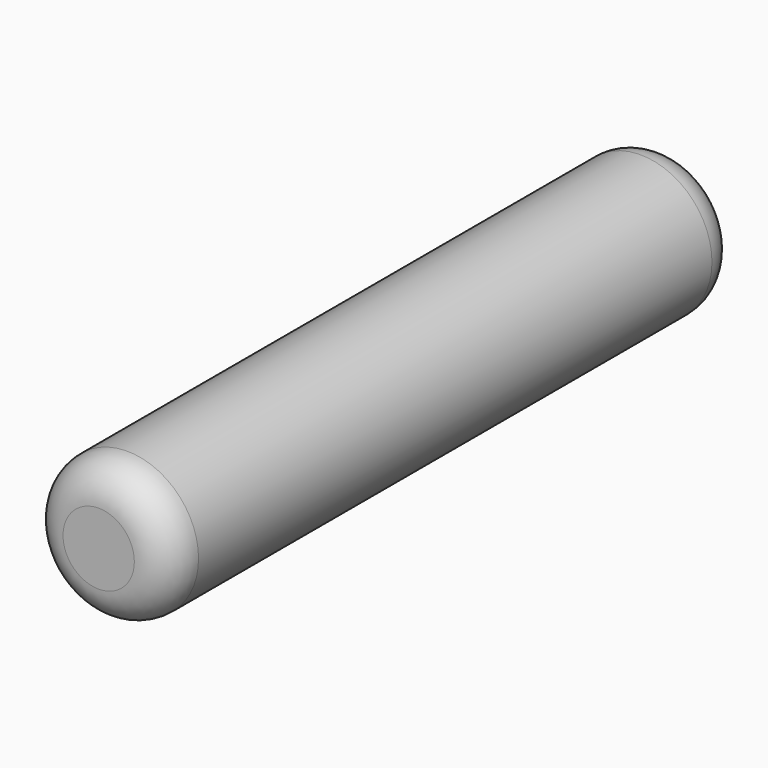
from build123d import *

# Parameters (mm, degrees)
F0_R     = 2
F1_DEPTH = 10
F2_DEPTH = 10
F3_R     = 1


with BuildPart() as f1:
    # F0 (on Front) → F1 (new body, symmetric)
    with BuildSketch(Plane.XZ):
        with Locations((0, 0.054377)):
            Circle(F0_R)
    extrude(amount=F1_DEPTH, both=True)

    # F0 (on Front) → F2 (join, symmetric)
    with BuildSketch(Plane.XZ):
        with Locations((0, 0.054377)):
            Circle(F0_R)
    extrude(amount=F2_DEPTH, both=True)

    # F3
    f3_edges = [f1.edges().sort_by_distance(p)[0] for p in [
        (-2, -10, 0.054377),
        (-2, 10, 0.054377),
    ]]
    fillet(f3_edges, radius=F3_R)


solid = f1.part
